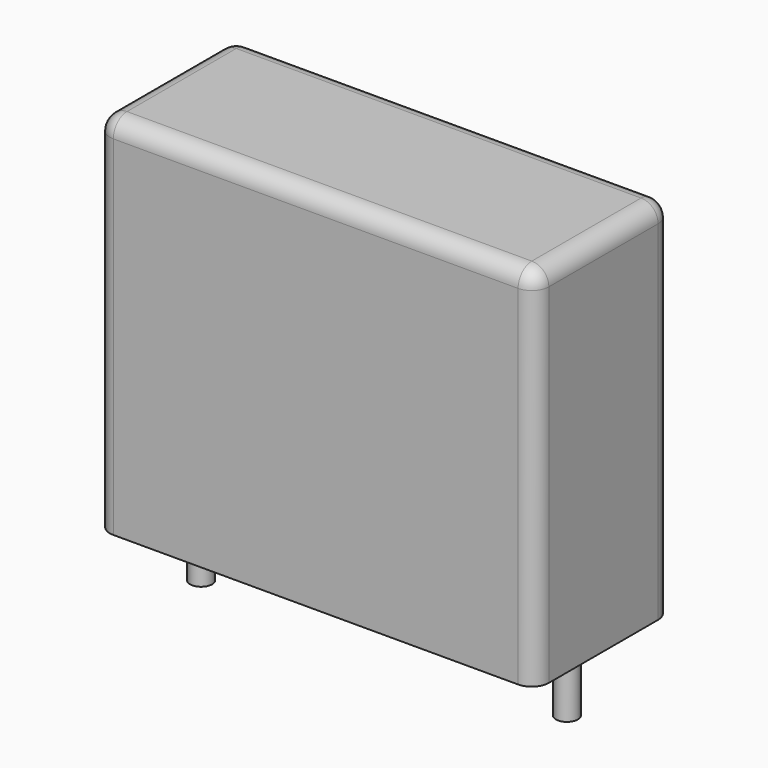
from build123d import *

# Parameters (mm, degrees)
SKETCH_W     = 18
SKETCH_H     = 7
PAD_DEPTH    = 15
FILLET_R     = 0.7
SKETCH001_R  = 0.45
PAD001_DEPTH = 3.2


with BuildPart() as fillet_body:
    # Sketch → Pad (new body)
    with BuildSketch(Plane.XY.offset(0.1)):
        with Locations((7.5, 0)):
            Rectangle(SKETCH_W, SKETCH_H)
    extrude(amount=PAD_DEPTH)

    # Fillet
    fillet_edges = [fillet_body.edges().sort_by_distance(p)[0] for p in [
        (-1.5, 0, 15.1),
        (-1.5, -3.5, 7.6),
        (7.5, -3.5, 15.1),
        (16.5, -3.5, 7.6),
        (16.5, 0, 15.1),
        (16.5, 3.5, 7.6),
        (7.5, 3.5, 15.1),
        (-1.5, 3.5, 7.6),
    ]]
    fillet(fillet_edges, radius=FILLET_R)


with BuildPart() as pad001:
    # Sketch001 → Pad001 (new body)
    with BuildSketch(Plane.XY.offset(0.5)):
        Circle(SKETCH001_R)
        with Locations((15, 0)):
            Circle(SKETCH001_R)
    extrude(amount=-PAD001_DEPTH)


solid = Compound([fillet_body.part, pad001.part])
